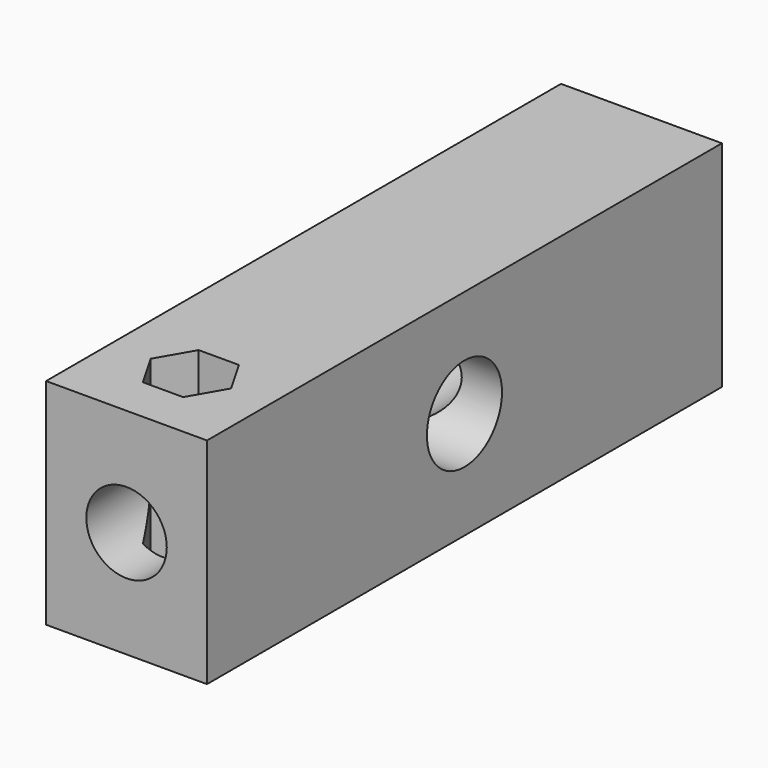
from build123d import *

# Parameters (mm, degrees)
F0_W          = 76.2
F0_H          = 101.6
F0_R          = 19.05
F1_DEPTH      = 152.4
F2_R          = 22.225
F3_DEPTH      = 38.101
F3_DEPTH_BACK = 139.23277
F5_DEPTH      = 101.601


with BuildPart() as f1:
    # F0 (on Front) → F1 (new body, symmetric)
    with BuildSketch(Plane.XZ):
        Rectangle(F0_W, F0_H)
        Circle(F0_R, mode=Mode.SUBTRACT)
    extrude(amount=F1_DEPTH, both=True)

    # F2 (on Right) → F3 (cut, two sides)
    with BuildSketch(Plane.YZ) as f3_sk:
        Circle(F2_R)
    extrude(amount=F3_DEPTH, mode=Mode.SUBTRACT)
    extrude(f3_sk.sketch, amount=-F3_DEPTH_BACK, mode=Mode.SUBTRACT)

    # F4 (on face) → F5 (cut, through all)
    with BuildSketch(Plane.XY.offset(50.8)):
        Polygon((9.525, -97.802216), (-9.525, -97.802216), (-19.05, -114.3), (-9.525, -130.797784), (9.525, -130.797784), (19.05, -114.3), align=None)
    extrude(amount=-F5_DEPTH, mode=Mode.SUBTRACT)


solid = f1.part
